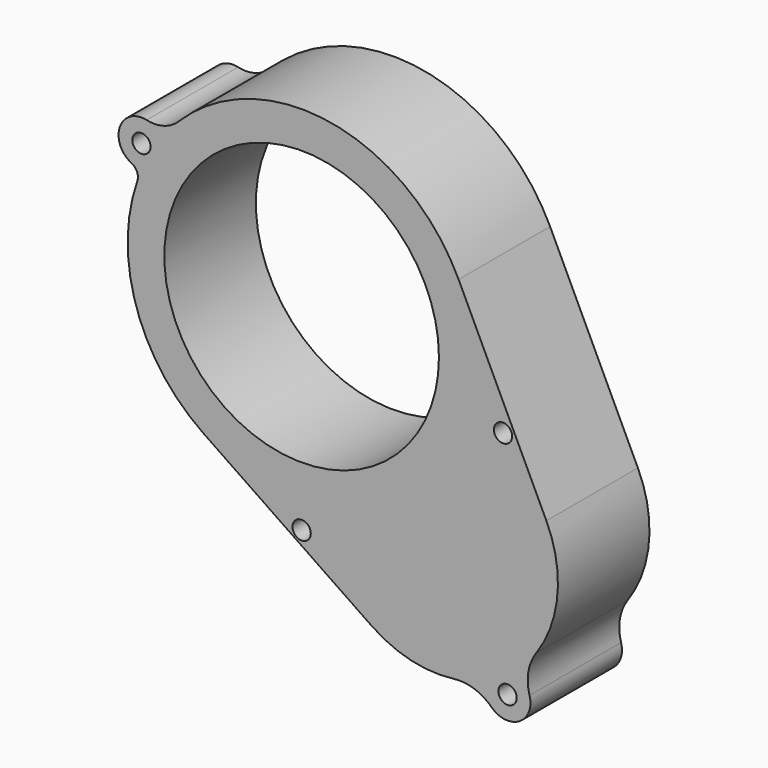
from build123d import *

# Parameters (mm, degrees)
F0_R     = 2
F0_R_2   = 30
F1_DEPTH = 25


with BuildPart() as f1:
    # F0 (on Front) → F1 (new body)
    with BuildSketch(Plane.XZ):
        with BuildLine():
            ThreePointArc((-37.180627, 15.50057), (-35.961619, 14.208477), (-35.908536, 12.432901))
            ThreePointArc((-35.908536, 12.432901), (-36.078966, -11.929302), (-21.419391, -31.38805))
            Line((-21.419391, -31.38805), (15.344627, -56.476034))
            ThreePointArc((15.344627, -56.476034), (23.903701, -60.275188), (33.253592, -60.795622))
            ThreePointArc((33.253592, -60.795622), (37.695532, -61.239657), (41.501658, -63.572339))
            ThreePointArc((41.501658, -63.572339), (47.572479, -64.287465), (49.798342, -58.594328))
            ThreePointArc((49.798342, -58.594328), (49.531211, -54.138249), (51.229741, -50.009933))
            ThreePointArc((51.229741, -50.009933), (55.905968, -37.209259), (53.464785, -23.801613))
            Line((53.464785, -23.801613), (34.294686, 16.366873))
            ThreePointArc((34.294686, 16.366873), (6.43256, 37.451598), (-26.868125, 26.87199))
            ThreePointArc((-26.868125, 26.87199), (-30.109076, 24.964689), (-33.868418, 24.870269))
            ThreePointArc((-33.868418, 24.870269), (-39.714121, 21.666452), (-37.180627, 15.50057))
        make_face()
        with Locations((0, -43)):
            Circle(F0_R, mode=Mode.SUBTRACT)
        with Locations((45, -60)):
            Circle(F0_R, mode=Mode.SUBTRACT)
        Circle(F0_R_2, mode=Mode.SUBTRACT)
        with Locations((-35, 20)):
            Circle(F0_R, mode=Mode.SUBTRACT)
        with Locations((44, -10)):
            Circle(F0_R, mode=Mode.SUBTRACT)
    extrude(amount=F1_DEPTH)


solid = f1.part
